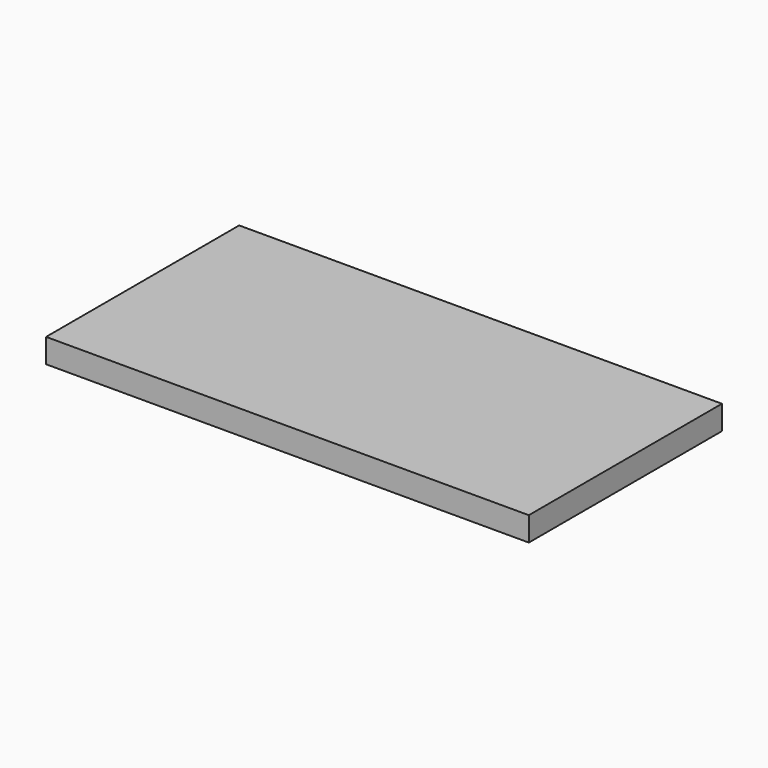
from build123d import *

# Parameters (mm, degrees)
SKETCH_W  = 60
SKETCH_H  = 30
PAD_DEPTH = 3


with BuildPart() as part:
    # Sketch → Pad (new body)
    with BuildSketch(Plane.XY):
        Rectangle(SKETCH_W, SKETCH_H)
    extrude(amount=PAD_DEPTH)


solid = part.part
